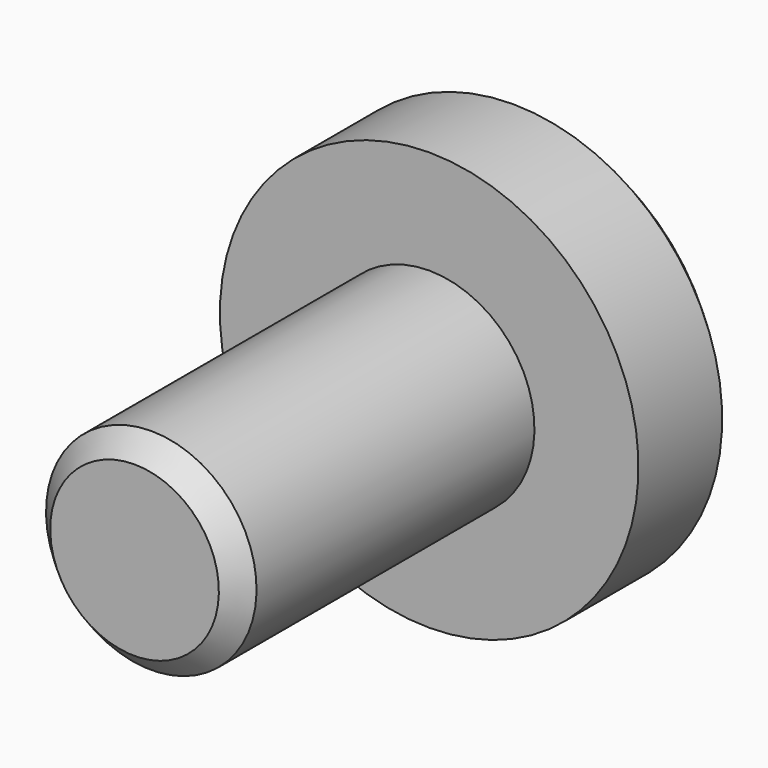
from build123d import *

# Parameters (mm, degrees)
F2_SIZE = 0.635


with BuildPart() as f1:
    # F0 (on Right) → F1 (revolve)
    with BuildSketch(Plane.YZ):
        Polygon((-14.986, 0), (0, 0), (0, 6.35), (-3.81, 6.35), (-3.81, 3.193765), (-14.986, 3.193765), align=None)
    revolve(axis=Axis((0, -7.493, 0), (0, -1, 0)))

    # F2
    f2_edges = [f1.edges().sort_by_distance(p)[0] for p in [
        (0, -14.986, -3.193765),
        (0, 0, -6.35),
    ]]
    chamfer(f2_edges, length=F2_SIZE)


solid = f1.part
